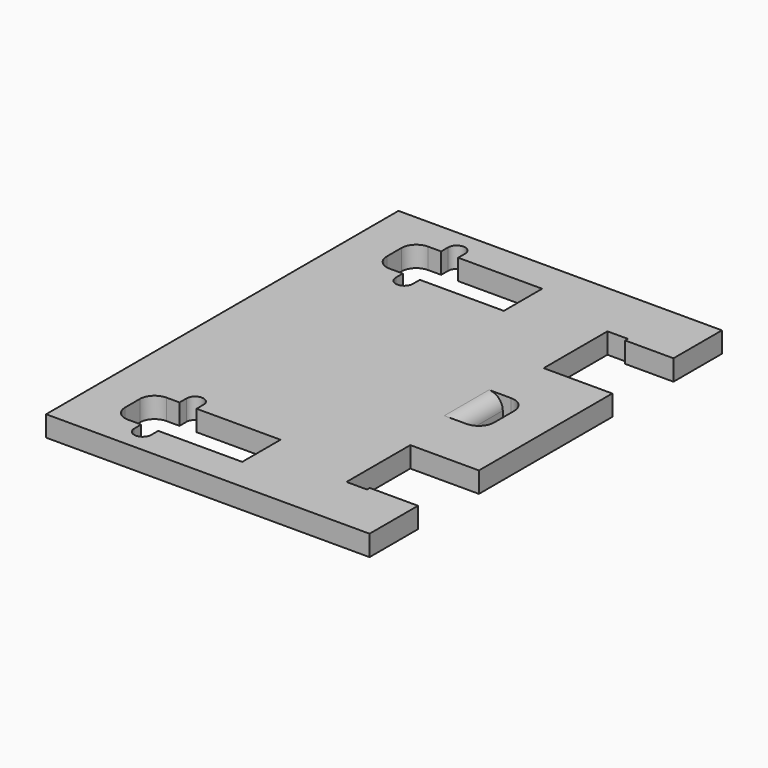
from build123d import *

# Parameters (mm, degrees)
PAD005_DEPTH    = 0.3
POCKET004_DEPTH = 16.1931364203
FILLET002_R     = 0.2


with BuildPart() as part:
    # Sketch010 → Pad005 (new body)
    with BuildSketch(Plane(origin=(2.72e-08, -2.8e-08, 2.1749994204), x_dir=(1, 0, 0), z_dir=(0, 0, 1))):
        Polygon((-2.35, 3.2), (-2.35, -3.2), (2.35, -3.2), (2.35, -2.32), (1.649, -2.32), (1.649, -2.37), (1.351, -2.37), (1.351, -1.211), (2.348, -1.211), (2.348, 1.211), (1.351, 1.211), (1.351, 2.37), (1.649, 2.37), (1.649, 2.32), (2.35, 2.32), (2.35, 3.2), align=None)
    extrude(amount=PAD005_DEPTH)

    # Sketch011 (on Face18 of Pad005) → Pocket004 (cut, through all)
    with BuildSketch(Plane(origin=(2.72e-08, -2.8e-08, 2.4749994204), x_dir=(1, 0, 0), z_dir=(0, 0, 1))):
        with BuildLine():
            Line((-1.101, -2.028), (0.119, -2.028))
            Line((0.119, -2.028), (0.119, -2.724))
            Line((0.119, -2.724), (-1.101, -2.724))
            Line((-1.101, -2.724), (-1.101, -2.851))
            ThreePointArc((-1.349, -2.851), (-1.225, -2.975), (-1.101, -2.851))
            Line((-1.349, -2.851), (-1.349, -2.724))
            Line((-1.349, -2.724), (-1.539, -2.724))
            ThreePointArc((-1.7535861303, -2.5094138697), (-1.6907353079, -2.6611491776), (-1.539, -2.724))
            Line((-1.7535861303, -2.2425861303), (-1.7535861303, -2.5094138697))
            ThreePointArc((-1.539, -2.028), (-1.6907353079, -2.0908508224), (-1.7535861303, -2.2425861303))
            Line((-1.349, -2.028), (-1.539, -2.028))
            Line((-1.349, -1.9009999997), (-1.349, -2.028))
            ThreePointArc((-1.101, -1.901), (-1.2249999999, -1.777), (-1.349, -1.9009999997))
            Line((-1.101, -2.028), (-1.101, -1.901))
        make_face()
        with BuildLine():
            Line((1.401, 0), (1.401, -0.406))
            Line((1.401, -0.406), (1.522, -0.406))
            ThreePointArc((1.522, -0.406), (1.6810990258, -0.3400990258), (1.747, -0.181))
            Line((1.747, 0), (1.747, -0.181))
            Line((1.401, 0), (1.747, 0))
        make_face()
    pocket004 = extrude(amount=-POCKET004_DEPTH, mode=Mode.SUBTRACT)

    # Mirrored: Pocket004 across Sketch011 H_Axis
    add(pocket004.mirror(Plane(origin=(2.72e-08, -2.8e-08, 2.4749994204), x_dir=(0, 0, 1), z_dir=(0, 1, 0))), mode=Mode.SUBTRACT)

    # Fillet002
    fillet002_edges = [part.edges().sort_by_distance(p)[0] for p in [
        (1.401, 0, 2.474999),
    ]]
    fillet(fillet002_edges, radius=FILLET002_R)


solid = part.part
